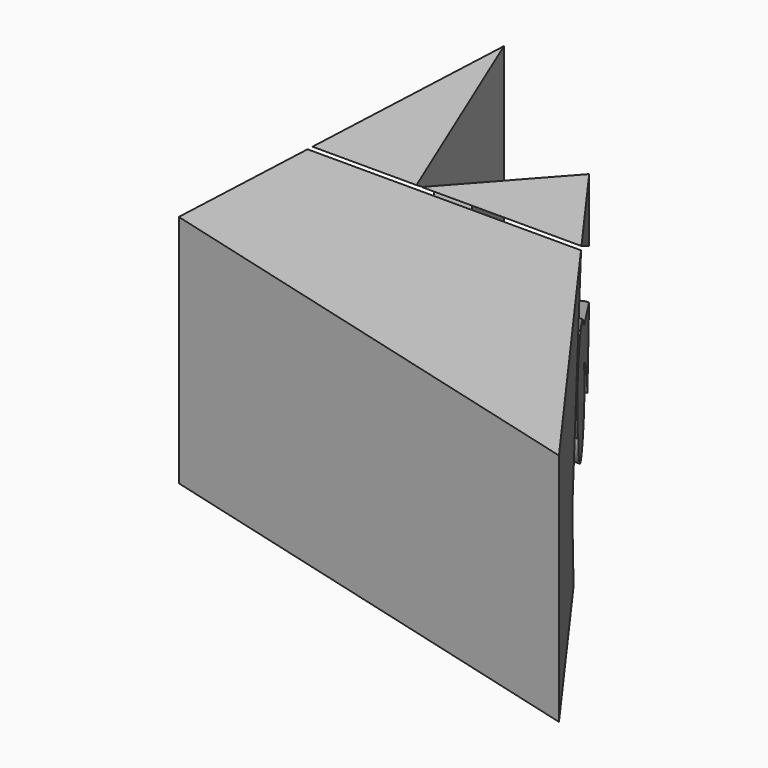
from build123d import *

# Parameters (mm, degrees)
F1_DEPTH = 70.866
F3_DEPTH = 215.392


with BuildPart() as f1:
    # F0 (on Top) → F1 (new body)
    with BuildSketch(Plane.XY):
        Polygon((46.445739, 69.577359), (41.061673, -46.52242), (187.28739, -85.703479), (103.012219, 31.07024), (75.195968, 0), align=None)
    extrude(amount=F1_DEPTH)

    # F2 (on Right) → F3 (cut)
    with BuildSketch(Plane.YZ):
        Polygon((-27.932592, -6.77688), (36.001924, 0), (44.898648, 42.896535), (0, 71.636237), (-34.380779, 23.575997), align=None)
        with BuildLine():
            Line((30.506765, 37.053104), (24.062416, 17.093824))
            ThreePointArc((24.062416, 17.093824), (19.121747, 27.023416), (10.347884, 33.807687))
            ThreePointArc((10.347884, 33.807687), (4.721009, 15.737806), (-10.475241, 27.018601))
            ThreePointArc((-10.475241, 27.018601), (-9.93313, 47.712974), (10.347884, 43.5619))
            Line((10.347884, 43.5619), (30.506765, 37.053104))
        make_face(mode=Mode.SUBTRACT)
    extrude(amount=F3_DEPTH, mode=Mode.SUBTRACT)


solid = f1.part
